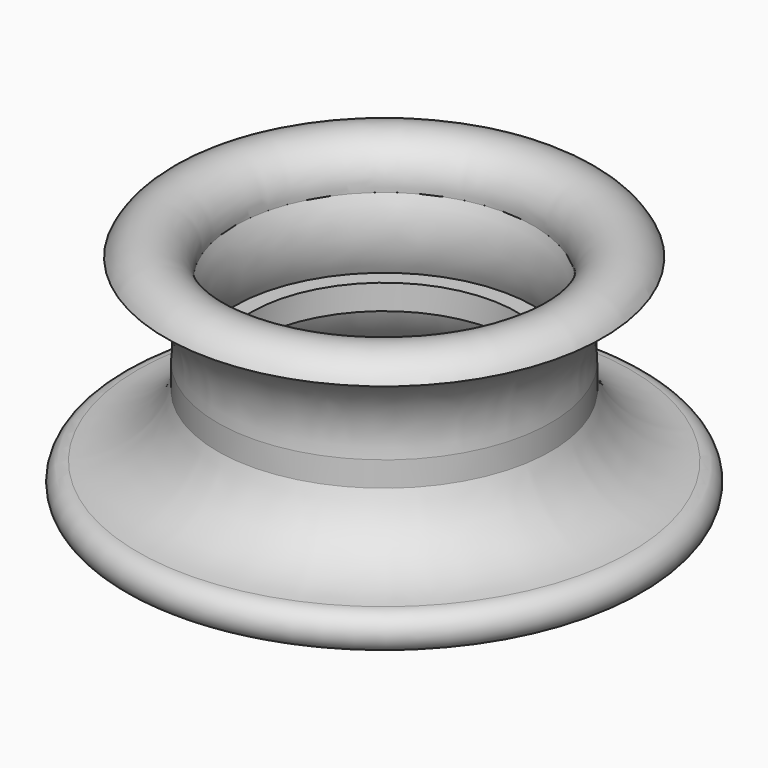
from build123d import *


with BuildPart() as f1:
    # F0 (on Front) → F1 (revolve)
    with BuildSketch(Plane.XZ):
        with BuildLine():
            ThreePointArc((-19.615385, -15.384616), (-16.1345, -0.947771), (-19.357322, 13.548865))
            ThreePointArc((-19.357322, 13.548865), (-29.847082, 30.084102), (-47.699415, 22.037777))
            ThreePointArc((-47.699415, 22.037777), (-30.452861, 7.085814), (-26.442308, -15.384616))
            Line((-26.442308, -15.384616), (-26.442308, -25.576925))
            ThreePointArc((-26.442308, -25.576925), (-38.872722, -43.25983), (-59.023905, -51.078405))
            ThreePointArc((-59.023905, -51.078405), (-63.240822, -64.328255), (-51.551411, -56.798409))
            ThreePointArc((-51.551411, -56.798409), (-31.570994, -45.291899), (-19.615385, -25.576925))
            Line((-19.615385, -25.576925), (-12.788462, -25.576925))
            Line((-12.788462, -25.576925), (-12.788462, -15.384616))
            Line((-12.788462, -15.384616), (-19.615385, -15.384616))
        make_face()
    revolve(axis=Axis((41.442309, 0, -10.288462), (0, 0, -1)))


solid = f1.part
